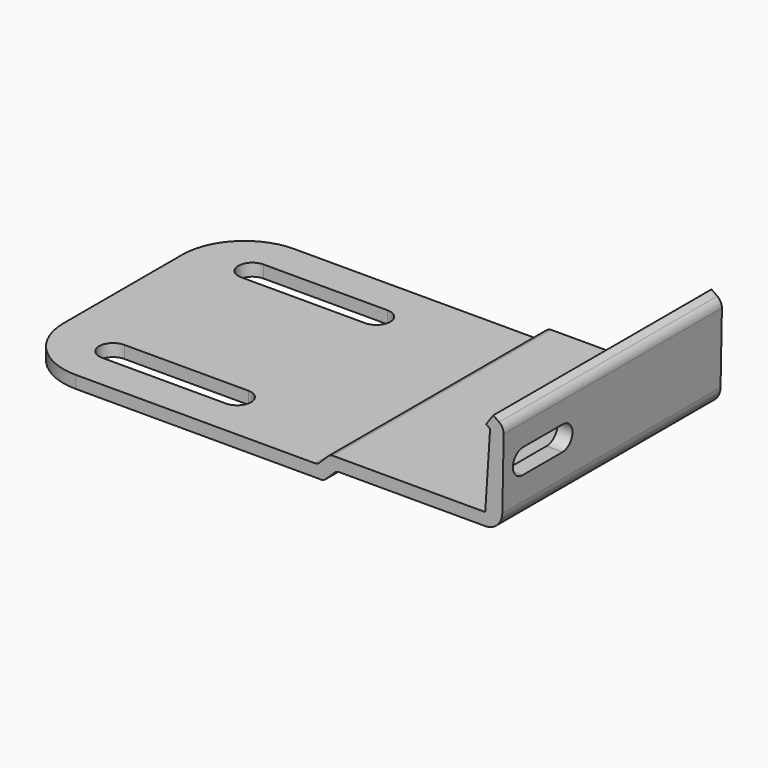
from build123d import *

# Parameters (mm, degrees)
F1_DEPTH = 22
F3_DEPTH = 2
F5_DEPTH = 25
F7_DEPTH = 25


with BuildPart() as f1:
    # F0 (on Front) → F1 (new body, symmetric)
    with BuildSketch(Plane.XZ):
        with BuildLine():
            Line((-40, 0), (-0.4058661959, 0))
            ThreePointArc((-0.4058661959, 0), (-0.0297944203, 0.073409465), (0.2910628996, 0.2828599608))
            Line((0.2910628996, 0.2828599608), (1.7669371004, 1.7171400392))
            ThreePointArc((1.7669371004, 1.7171400392), (2.0877944203, 1.926590535), (2.4638661959, 2))
            Line((2.4638661959, 2), (26.037, 2))
            ThreePointArc((26.037, 2), (27.9687843496, 2.7891547709), (28.7954749436, 4.705176349))
            Line((28.7954749436, 4.705176349), (29.016465998, 16.0310205539))
            ThreePointArc((29.016465998, 16.0310205539), (28.8276722638, 16.8546583092), (28.2736767263, 17.4927109486))
            Line((28.2736767263, 17.4927109486), (27.3333525812, 18.1512658075))
            Line((27.3333525812, 18.1512658075), (26.1860444646, 16.5130704329))
            Line((26.1860444646, 16.5130704329), (26.8254471929, 16.0652655182))
            Line((26.8254471929, 16.0652655182), (26.037, 4))
            Line((26.037, 4), (1.4428661959, 4))
            ThreePointArc((1.4428661959, 4), (1.0667944203, 3.926590535), (0.7459371004, 3.7171400392))
            Line((0.7459371004, 3.7171400392), (-0.7299371004, 2.2828599608))
            ThreePointArc((-0.7299371004, 2.2828599608), (-1.0507944203, 2.073409465), (-1.4268661959, 2))
            Line((-1.4268661959, 2), (-40, 2))
            Line((-40, 2), (-40, 0))
        make_face()
    extrude(amount=F1_DEPTH, both=True)

    # F2 (on face) → F3 (join)
    with BuildSketch(Plane.XY.offset(2)):
        with BuildLine():
            Line((-50, 12), (-50, -12))
            ThreePointArc((-50, -12), (-47.0710678119, -19.0710678119), (-40, -22))
            Line((-40, -22), (-40, 22))
            ThreePointArc((-40, 22), (-47.0710678119, 19.0710678119), (-50, 12))
        make_face()
    extrude(amount=-F3_DEPTH)

    # F4 (on face) → F5 (cut)
    with BuildSketch(Plane.XY.offset(2)):
        with BuildLine():
            ThreePointArc((-40.35, -11.789), (-42.6, -14.039), (-40.35, -16.289))
            Line((-40.35, -16.289), (-20.35, -16.289))
            ThreePointArc((-20.35, -16.289), (-18.1, -14.039), (-20.35, -11.789))
            Line((-20.35, -11.789), (-40.35, -11.789))
        make_face()
        with BuildLine():
            ThreePointArc((-40.35, 16.289), (-42.6, 14.039), (-40.35, 11.789))
            Line((-40.35, 11.789), (-20.35, 11.789))
            ThreePointArc((-20.35, 11.789), (-18.1, 14.039), (-20.35, 16.289))
            Line((-20.35, 16.289), (-40.35, 16.289))
        make_face()
    extrude(amount=-F5_DEPTH, mode=Mode.SUBTRACT)

    # F6 (on face) → F7 (cut)
    with BuildSketch(Plane(origin=(28.6927430868, 0, -0.5598557981), x_dir=(0, 1, 0), z_dir=(0.9998096932, 0, -0.0195083911))):
        with BuildLine():
            Line((-9.9999997095, 13.096034309), (-17.9999997095, 13.096034309))
            ThreePointArc((-17.9999997095, 13.096034309), (-20, 11.0960344543), (-18, 9.096034309))
            Line((-18, 9.096034309), (-9.9999997095, 9.096034309))
            ThreePointArc((-9.9999997095, 9.096034309), (-7.9999997095, 11.096034309), (-9.9999997095, 13.096034309))
        make_face()
    extrude(amount=-F7_DEPTH, mode=Mode.SUBTRACT)


solid = f1.part
